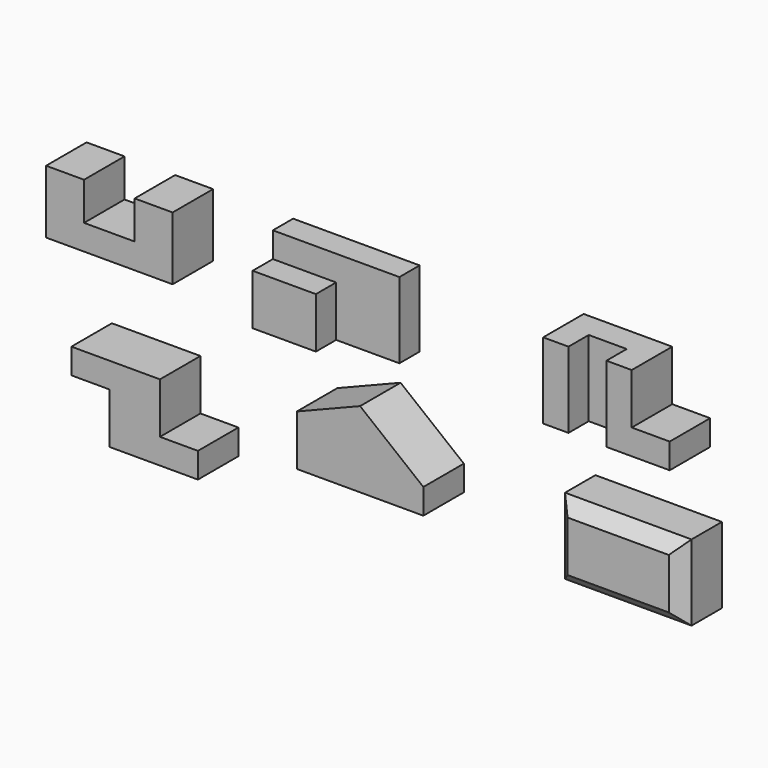
from build123d import *

# Parameters (mm, degrees)
F1_DEPTH  = 101.6
F3_DEPTH  = 152.4
F4_W      = 127
F4_H      = 50.8
F5_DEPTH  = 50.8
F7_DEPTH  = 152.4
F8_W      = 76.2
F8_H      = 101.6
F9_DEPTH  = 101.6
F11_DEPTH = 101.6
F13_DEPTH = 101.6
F14_W     = 254
F14_H     = 152.4
F15_DEPTH = 101.6
F16_SIZE  = 25.4


with BuildPart() as f1:
    # F0 (on Front) → F1 (new body)
    with BuildSketch(Plane.XZ):
        Polygon((-127, 0), (0, 0), (127, 0), (127, 127), (50.8, 127), (50.8, 50.8), (-50.8, 50.8), (-50.8, 127), (-127, 127), align=None)
    extrude(amount=F1_DEPTH)


with BuildPart() as f3:
    # F2 (on face) → F3 (new body)
    with BuildSketch(Plane.XY.offset(127)):
        Polygon((541.617712, 0), (287.617712, 0), (287.617712, -101.6), (414.617712, -101.6), (414.617712, -50.8), (541.617712, -50.8), align=None)
    extrude(amount=-F3_DEPTH)

    # F4 (on face) → F5 (cut)
    with BuildSketch(Plane.XZ.offset(101.6)):
        with Locations((351.117712, 101.6)):
            Rectangle(F4_W, F4_H)
    extrude(amount=-F5_DEPTH, mode=Mode.SUBTRACT)


with BuildPart() as f7:
    # F6 (on Top) → F7 (new body)
    with BuildSketch(Plane.XY):
        Polygon((1129.865102, -6.247375), (875.865102, -6.247375), (875.865102, -107.847375), (926.665102, -107.847375), (926.665102, -57.047375), (1002.865102, -57.047375), (1002.865102, -107.847375), (1129.865102, -107.847375), align=None)
    extrude(amount=F7_DEPTH)

    # F8 (on face) → F9 (cut)
    with BuildSketch(Plane.XY.offset(152.4)):
        with Locations((1091.765102, -57.047375)):
            Rectangle(F8_W, F8_H)
    extrude(amount=-F9_DEPTH, mode=Mode.SUBTRACT)


with BuildPart() as f11:
    # F10 (on Front) → F11 (new body)
    with BuildSketch(Plane.XZ):
        Polygon((101.6, -176.197618), (-76.2, -176.197618), (-76.2, -226.997618), (0, -226.997618), (0, -328.597618), (177.8, -328.597618), (177.8, -277.797618), (101.6, -277.797618), align=None)
    extrude(amount=F11_DEPTH)


with BuildPart() as f13:
    # F12 (on Front) → F13 (new body)
    with BuildSketch(Plane.XZ):
        Polygon((503.346558, -92.831268), (376.346558, -143.631268), (376.346558, -245.231268), (630.346558, -245.231268), (630.346558, -194.431268), align=None)
    extrude(amount=F13_DEPTH)


with BuildPart() as f15:
    # F14 (on Front) → F15 (new body)
    with BuildSketch(Plane.XZ):
        with Locations((1021.420248, -205.169693)):
            Rectangle(F14_W, F14_H)
    extrude(amount=F15_DEPTH)

    # F16
    f16_edges = [f15.edges().sort_by_distance(p)[0] for p in [
        (1021.420248, -101.6, -128.969693),
        (1148.420248, -101.6, -205.169693),
        (894.420248, -101.6, -205.169693),
        (1021.420248, -101.6, -281.369693),
    ]]
    chamfer(f16_edges, length=F16_SIZE)


solid = Compound([f1.part, f3.part, f7.part, f11.part, f13.part, f15.part])
